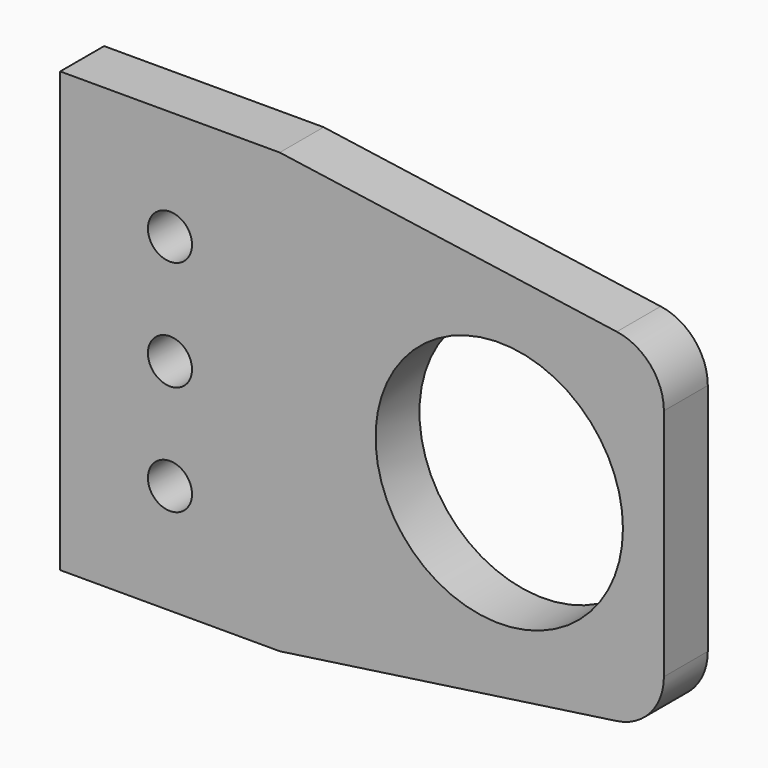
from build123d import *

# Parameters (mm, degrees)
F0_W     = 25.4
F0_H     = 50.8
F1_DEPTH = 6.35
F3_D     = 5.1054
F3_DEPTH = 12.7
F3_TIP   = 1.5338169022
F4_R     = 14.3129
F5_DEPTH = 6.35


with BuildPart() as f1:
    # F0 (on Front) → F1 (new body)
    with BuildSketch(Plane.XZ):
        with Locations((-12.7, 0)):
            Rectangle(F0_W, F0_H)
        with BuildLine():
            Line((38.9980256121, 19.828853484), (0, 25.4))
            Line((0, 25.4), (0, -25.4))
            Line((0, -25.4), (38.9980256121, -19.828853484))
            ThreePointArc((38.9980256121, -19.828853484), (42.8971326142, -17.7032052569), (44.45, -13.5426741992))
            Line((44.45, -13.5426741992), (44.45, 0))
            Line((44.45, 0), (44.45, 13.5426741992))
            ThreePointArc((44.45, 13.5426741992), (42.8971326142, 17.7032052569), (38.9980256121, 19.828853484))
        make_face()
    extrude(amount=F1_DEPTH)

    # F3
    with Locations(Plane.XZ.offset(6.35)):
        with Locations((-12.7, 12.7), (-12.7, 0), (-12.7, -12.7)):
            Hole(F3_D / 2, depth=F3_DEPTH)
            with Locations((0, 0, -(F3_DEPTH + F3_TIP / 2))):  # 118° drill point
                Cone(0, F3_D / 2, F3_TIP, mode=Mode.SUBTRACT)

    # F4 (on face) → F5 (cut, through all)
    with BuildSketch(Plane.XZ.offset(6.35)):
        with Locations((25.4, 0)):
            Circle(F4_R)
    extrude(amount=-F5_DEPTH, mode=Mode.SUBTRACT)


solid = f1.part
